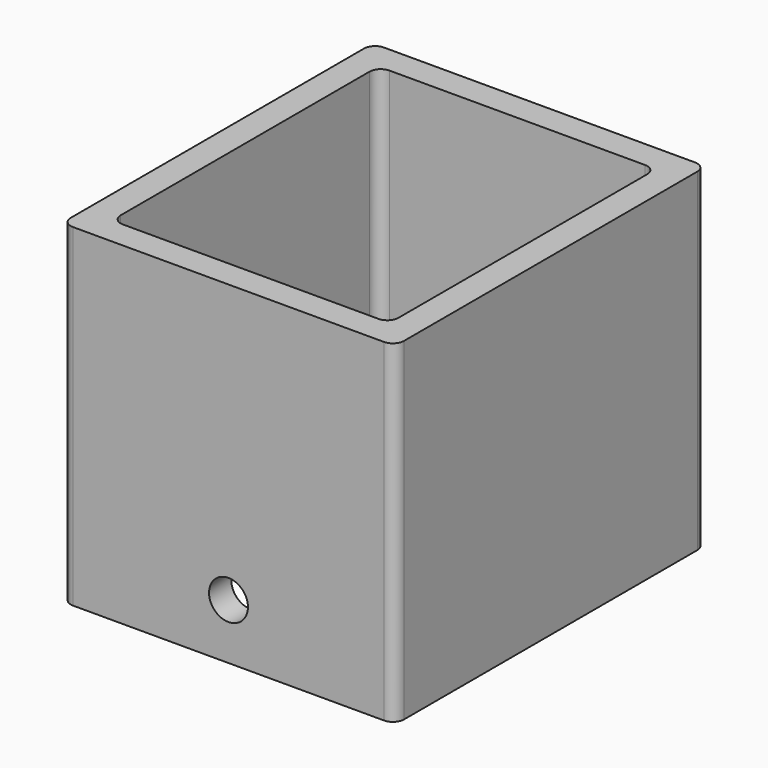
from build123d import *

# Parameters (mm, degrees)
F0_W     = 60
F0_H     = 70
F0_W_2   = 3.1822137535
F0_H_2   = 3.1822174788
F0_W_3   = 50
F0_H_3   = 60
F1_DEPTH = 60
F2_R     = 2
F3_R     = 2
F4_R     = 3.5
F5_DEPTH = 35


with BuildPart() as f1:
    # F0 (on Top) → F1 (new body)
    with BuildSketch(Plane.XY):
        Rectangle(F0_W, F0_H)
        with Locations((-28.2989926636, 27.0488355309)):
            Rectangle(F0_W_2, F0_H_2, mode=Mode.SUBTRACT)
        Rectangle(F0_W_3, F0_H_3, mode=Mode.SUBTRACT)
        with Locations((-28.2989926636, 27.0488355309)):
            Rectangle(F0_W_2, F0_H_2)
    extrude(amount=F1_DEPTH)

    # F2
    f2_edges = [f1.edges().sort_by_distance(p)[0] for p in [
        (30, 35, 30),
        (30, -35, 30),
        (-30, 35, 30),
        (-30, -35, 30),
    ]]
    fillet(f2_edges, radius=F2_R)

    # F3
    f3_edges = [f1.edges().sort_by_distance(p)[0] for p in [
        (-25, 30, 30),
        (25, -30, 30),
        (25, 30, 30),
        (-25, -30, 30),
    ]]
    fillet(f3_edges, radius=F3_R)

    # F4 (on Front) → F5 (cut, symmetric)
    with BuildSketch(Plane.XZ):
        with Locations((0, 10)):
            Circle(F4_R)
    extrude(amount=F5_DEPTH, both=True, mode=Mode.SUBTRACT)


solid = f1.part
